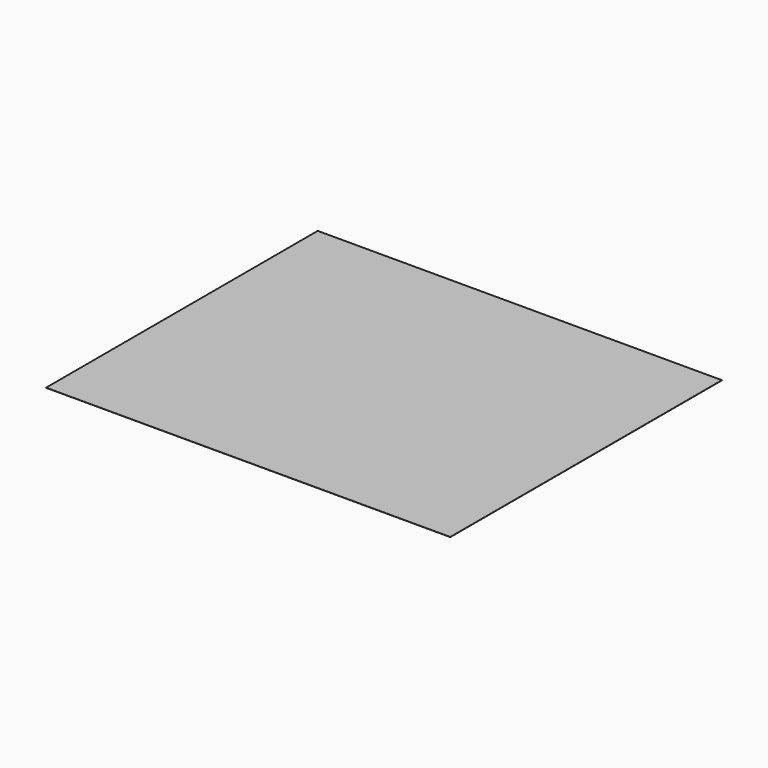
from build123d import *

# Parameters (mm, degrees)
SKETCH_W  = 250
SKETCH_H  = 210
PAD_DEPTH = 0.1


with BuildPart() as part:
    # Sketch → Pad (new body)
    with BuildSketch(Plane.XY):
        Rectangle(SKETCH_W, SKETCH_H)
    extrude(amount=PAD_DEPTH)


solid = part.part
